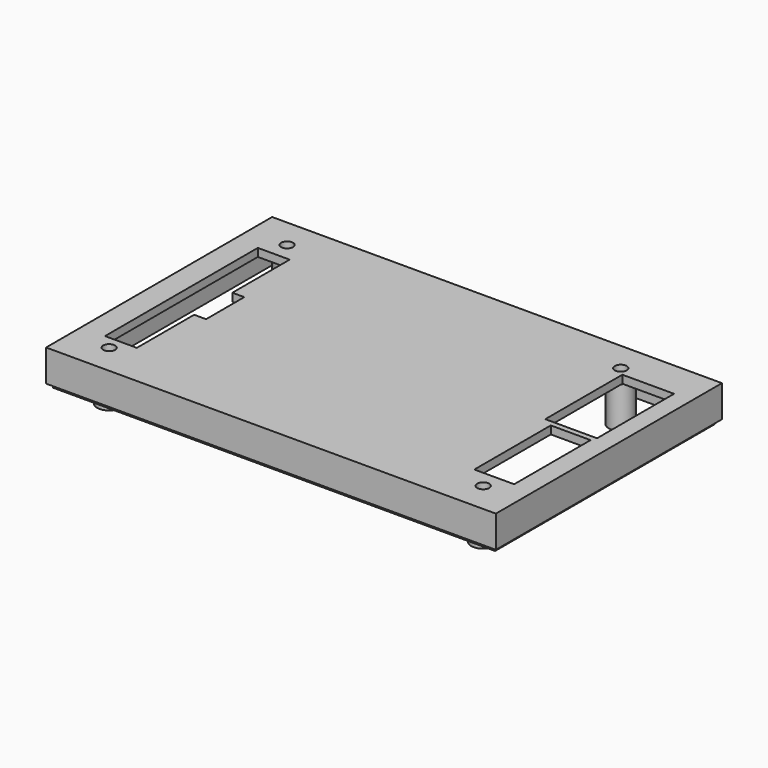
from build123d import *

# Parameters (mm, degrees)
TUBE004_R         = 3
TUBE004_R_2       = 1.5
TUBE004_DEPTH     = 10.35
TUBE002_R         = 3
TUBE002_R_2       = 1.5
TUBE002_DEPTH     = 10.35
TUBE001_R         = 3
TUBE001_R_2       = 1.5
TUBE001_DEPTH     = 10.35
TUBE_R            = 3
TUBE_R_2          = 1.5
TUBE_DEPTH        = 10.35
CYLINDER007_R     = 1.5
CYLINDER007_DEPTH = 2
CYLINDER006_R     = 1.5
CYLINDER006_DEPTH = 2
CYLINDER005_R     = 1.5
CYLINDER005_DEPTH = 2
CYLINDER004_R     = 1.5
CYLINDER004_DEPTH = 2
BOX012_W          = 1
BOX012_H          = 1
BOX012_DEPTH      = 1
BOX011_W          = 13
BOX011_H          = 24.2
BOX011_DEPTH      = 10
BOX010_W          = 10
BOX010_H          = 24
BOX010_DEPTH      = 10
BOX009_W          = 5
BOX009_H          = 12
BOX009_DEPTH      = 10
BOX008_W          = 8
BOX008_H          = 48
BOX008_DEPTH      = 10
BOX007_W          = 109
BOX007_H          = 67
BOX007_DEPTH      = 1
BOX006_W          = 111
BOX006_H          = 69
BOX006_DEPTH      = 1
BOX005_W          = 109
BOX005_H          = 67
BOX005_DEPTH      = 6
BOX004_W          = 113
BOX004_H          = 71
BOX004_DEPTH      = 8


with BuildPart() as obj1:
    # Tube004 → Tube004 (new body)
    with BuildSketch(Plane(origin=(103.69, -64.33, -0.35), x_dir=(1, 0, 0), z_dir=(0, 0, 1))):
        Circle(TUBE004_R)
        Circle(TUBE004_R_2, mode=Mode.SUBTRACT)
    extrude(amount=TUBE004_DEPTH)


with BuildPart() as obj2:
    # Tube002 → Tube002 (new body)
    with BuildSketch(Plane(origin=(93.54, -8.44, -0.35), x_dir=(1, 0, 0), z_dir=(0, 0, 1))):
        Circle(TUBE002_R)
        Circle(TUBE002_R_2, mode=Mode.SUBTRACT)
    extrude(amount=TUBE002_DEPTH)


with BuildPart() as obj3:
    # Tube001 → Tube001 (new body)
    with BuildSketch(Plane(origin=(9.71, -64.33, -0.35), x_dir=(1, 0, 0), z_dir=(0, 0, 1))):
        Circle(TUBE001_R)
        Circle(TUBE001_R_2, mode=Mode.SUBTRACT)
    extrude(amount=TUBE001_DEPTH)


with BuildPart() as pusher_lo:
    # Tube → Tube (new body)
    with BuildSketch(Plane(origin=(9.71, -8.44, -0.35), x_dir=(1, 0, 0), z_dir=(0, 0, 1))):
        Circle(TUBE_R)
        Circle(TUBE_R_2, mode=Mode.SUBTRACT)
    extrude(amount=TUBE_DEPTH)


with BuildPart() as obj4:
    # Cylinder007 → Cylinder007 (new body)
    with BuildSketch(Plane(origin=(103.69, -64.33, 10), x_dir=(1, 0, 0), z_dir=(0, 0, 1))):
        Circle(CYLINDER007_R)
    extrude(amount=CYLINDER007_DEPTH)


with BuildPart() as obj5:
    # Cylinder006 → Cylinder006 (new body)
    with BuildSketch(Plane(origin=(93.54, -8.44, 10), x_dir=(1, 0, 0), z_dir=(0, 0, 1))):
        Circle(CYLINDER006_R)
    extrude(amount=CYLINDER006_DEPTH)


with BuildPart() as obj6:
    # Cylinder005 → Cylinder005 (new body)
    with BuildSketch(Plane(origin=(9.71, -64.33, 10), x_dir=(1, 0, 0), z_dir=(0, 0, 1))):
        Circle(CYLINDER005_R)
    extrude(amount=CYLINDER005_DEPTH)


with BuildPart() as hole_lo:
    # Cylinder004 → Cylinder004 (new body)
    with BuildSketch(Plane(origin=(9.71, -8.44, 10), x_dir=(1, 0, 0), z_dir=(0, 0, 1))):
        Circle(CYLINDER004_R)
    extrude(amount=CYLINDER004_DEPTH)


with BuildPart() as supply_cut:
    # Box012 → Box012 (new body)
    with BuildSketch(Plane(origin=(86, -70, 9), x_dir=(1, 0, 0), z_dir=(0, 0, 1))):
        with Locations((0.5, 0.5)):
            Rectangle(BOX012_W, BOX012_H)
    extrude(amount=BOX012_DEPTH)


with BuildPart() as phoenix_cut:
    # Box011 → Box011 (new body)
    with BuildSketch(Plane(origin=(95.5, -34.6, 3), x_dir=(1, 0, 0), z_dir=(0, 0, 1))):
        with Locations((6.5, 12.1)):
            Rectangle(BOX011_W, BOX011_H)
    extrude(amount=BOX011_DEPTH)


with BuildPart() as obj7:
    # Box010 → Box010 (new body)
    with BuildSketch(Plane(origin=(98, -60, 3), x_dir=(1, 0, 0), z_dir=(0, 0, 1))):
        with Locations((5, 12)):
            Rectangle(BOX010_W, BOX010_H)
    extrude(amount=BOX010_DEPTH)


with BuildPart() as box009:
    # Box009 → Box009 (new body)
    with BuildSketch(Plane(origin=(12, -43, 6), x_dir=(1, 0, 0), z_dir=(0, 0, 1))):
        with Locations((2.5, 6)):
            Rectangle(BOX009_W, BOX009_H)
    extrude(amount=BOX009_DEPTH)


with BuildPart() as box008:
    # Box008 → Box008 (new body)
    with BuildSketch(Plane(origin=(6, -61, 6), x_dir=(1, 0, 0), z_dir=(0, 0, 1))):
        with Locations((4, 24)):
            Rectangle(BOX008_W, BOX008_H)
    extrude(amount=BOX008_DEPTH)


with BuildPart() as casebottomlip_in001:
    # Box007 → Box007 (new body)
    with BuildSketch(Plane(origin=(2, -70, -13), x_dir=(1, 0, 0), z_dir=(0, 0, 1))):
        with Locations((54.5, 33.5)):
            Rectangle(BOX007_W, BOX007_H)
    extrude(amount=BOX007_DEPTH)


with BuildPart() as casetoplip:
    # Box006 → Box006 (new body)
    with BuildSketch(Plane(origin=(1, -71, -13), x_dir=(1, 0, 0), z_dir=(0, 0, 1))):
        with Locations((55.5, 34.5)):
            Rectangle(BOX006_W, BOX006_H)
    extrude(amount=BOX006_DEPTH)

    # Cut003: cut CaseBottomLip_In001
    add(casebottomlip_in001.part, mode=Mode.SUBTRACT)


with BuildPart() as casetopbed_in:
    # Box005 → Box005 (new body)
    with BuildSketch(Plane(origin=(2, -70, -12), x_dir=(1, 0, 0), z_dir=(0, 0, 1))):
        with Locations((54.5, 33.5)):
            Rectangle(BOX005_W, BOX005_H)
    extrude(amount=BOX005_DEPTH)


with BuildPart() as casetop:
    # Box004 → Box004 (new body)
    with BuildSketch(Plane(origin=(0, -72, -12), x_dir=(1, 0, 0), z_dir=(0, 0, 1))):
        with Locations((56.5, 35.5)):
            Rectangle(BOX004_W, BOX004_H)
    extrude(amount=BOX004_DEPTH)

    # Cut002: cut CaseTopBed_In
    add(casetopbed_in.part, mode=Mode.SUBTRACT)

    # Fusion001: union CaseTopLip
    add(casetoplip.part)


with BuildPart() as casetop_1:
    # Fusion001 placement: moved
    add(casetop.part.moved(Location((0, 0, 16))))

    # Cut004: cut Box008
    add(box008.part, mode=Mode.SUBTRACT)

    # Cut005: cut Box009
    add(box009.part, mode=Mode.SUBTRACT)

    # Cut006: cut obj7
    add(obj7.part, mode=Mode.SUBTRACT)

    # Cut007: cut Phoenix_Cut
    add(phoenix_cut.part, mode=Mode.SUBTRACT)

    # Cut008: cut Supply_Cut
    add(supply_cut.part, mode=Mode.SUBTRACT)

    # Cut013: cut Hole_LO
    add(hole_lo.part, mode=Mode.SUBTRACT)

    # Cut014: cut obj6
    add(obj6.part, mode=Mode.SUBTRACT)

    # Cut015: cut obj5
    add(obj5.part, mode=Mode.SUBTRACT)

    # Cut016: cut obj4
    add(obj4.part, mode=Mode.SUBTRACT)

    # Fusion006: union Pusher_LO
    add(pusher_lo.part)

    # Fusion007: union obj3
    add(obj3.part)

    # Fusion008: union obj2
    add(obj2.part)

    # Fusion009: union obj1
    add(obj1.part)


with BuildPart() as casetop_2:
    # Fusion009 placement: moved
    add(casetop_1.part.moved(Location((0, 0, 13))))


solid = casetop_2.part
